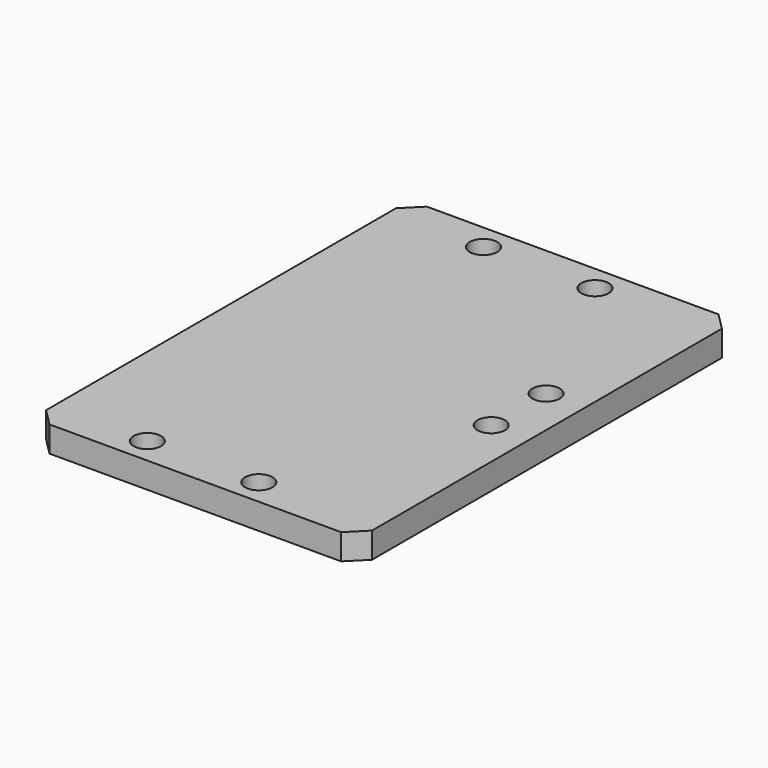
from build123d import *

# Parameters (mm, degrees)
SKETCH145_R     = 1.6
PAD079_DEPTH    = 3
CHAMFER051_SIZE = 2
FILLET047_R     = 2
SKETCH_W        = 38
SKETCH_H        = 10
POCKET_DEPTH    = 3.001
CHAMFER_SIZE    = 2


with BuildPart() as part:
    # Sketch145 → Pad079 (new body)
    with BuildSketch(Plane.XY):
        with BuildLine():
            Line((-18, 55), (20, 55))
            Line((20, 55), (20, -10))
            Line((20, -10), (10, -10))
            ThreePointArc((10, -10), (9.707107, -9.292893), (9, -9))
            Line((5, -9), (9, -9))
            ThreePointArc((5, -9), (4.292893, -9.292893), (4, -10))
            Line((4, -10), (-8, -10))
            ThreePointArc((-8, -10), (-8.292893, -9.292893), (-9, -9))
            Line((-13, -9), (-9, -9))
            ThreePointArc((-13, -9), (-13.707107, -9.292893), (-14, -10))
            Line((-14, -10), (-18, -10))
            Line((-18, -10), (-18, 55))
        make_face()
        with Locations((15.5, 25)):
            Circle(SKETCH145_R, mode=Mode.SUBTRACT)
        with Locations((15.5, 33)):
            Circle(SKETCH145_R, mode=Mode.SUBTRACT)
        with Locations((5.999998, 51.999985)):
            Circle(SKETCH145_R, mode=Mode.SUBTRACT)
        with Locations((-7.000002, 51.999985)):
            Circle(SKETCH145_R, mode=Mode.SUBTRACT)
        with Locations((-7.000002, 2.999985)):
            Circle(SKETCH145_R, mode=Mode.SUBTRACT)
        with Locations((5.999998, 2.999985)):
            Circle(SKETCH145_R, mode=Mode.SUBTRACT)
        with BuildLine():
            ThreePointArc((-13, -2), (-14, -3), (-13, -4))
            Line((-13, -4), (-9, -4))
            ThreePointArc((-9, -4), (-8, -3), (-9, -2))
            Line((-13, -2), (-9, -2))
        make_face(mode=Mode.SUBTRACT)
        with BuildLine():
            ThreePointArc((5, -2), (4, -3), (5, -4))
            Line((5, -4), (9, -4))
            ThreePointArc((9, -4), (10, -3), (9, -2))
            Line((5, -2), (9, -2))
        make_face(mode=Mode.SUBTRACT)
    extrude(amount=PAD079_DEPTH)

    # Chamfer051
    chamfer051_edges = [part.edges().sort_by_distance(p)[0] for p in [
        (-18, 55, 1.5),
        (20, 55, 1.5),
        (20, -10, 1.5),
        (-18, -10, 1.5),
    ]]
    chamfer(chamfer051_edges, length=CHAMFER051_SIZE)

    # Fillet047
    fillet047_edges = [part.edges().sort_by_distance(p)[0] for p in [
        (-14, -10, 1.5),
        (-8, -10, 1.5),
        (4, -10, 1.5),
        (10, -10, 1.5),
    ]]
    fillet(fillet047_edges, radius=FILLET047_R)

    # Sketch → Pocket (cut, through all)
    with BuildSketch(Plane.XY):
        with Locations((1, -5)):
            Rectangle(SKETCH_W, SKETCH_H)
    extrude(amount=POCKET_DEPTH, mode=Mode.SUBTRACT)

    # Chamfer
    chamfer_edges = [part.edges().sort_by_distance(p)[0] for p in [
        (-18, 0, 1.5),
        (20, 0, 1.5),
    ]]
    chamfer(chamfer_edges, length=CHAMFER_SIZE)


with BuildPart() as part_1:
    # Body067 placement: moved
    add(part.part.moved(Location((0, -2.3e-05, 33.499985))))


solid = part_1.part
